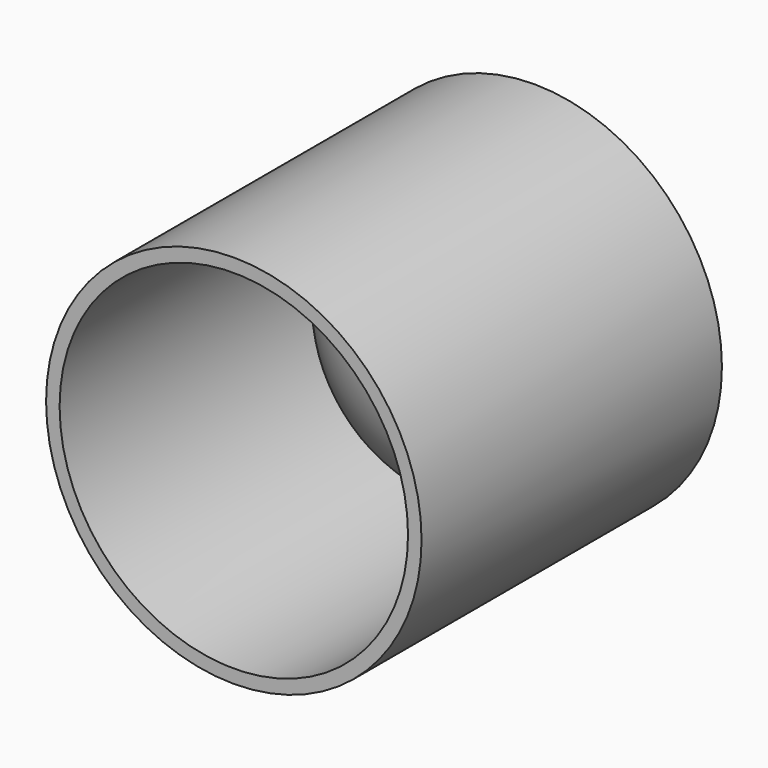
from build123d import *

# Parameters (mm, degrees)
F1_R     = 25
F1_R_2   = 23.2
F2_DEPTH = 50


with BuildPart() as f2:
    # F1 (on Front) → F2 (new body)
    with BuildSketch(Plane.XZ):
        Circle(F1_R)
        Circle(F1_R_2, mode=Mode.SUBTRACT)
    extrude(amount=F2_DEPTH)


with BuildPart() as f4:
    # F3 (on Right) → F4 (revolve)
    with BuildSketch(Plane.YZ):
        with BuildLine():
            Line((0, 0), (0, 23.2))
            ThreePointArc((0, 23.2), (-16.4048773235, 16.4048773235), (-23.2, 0))
            Line((-23.2, 0), (0, 0))
        make_face()
    revolve(axis=Axis((0, -11.6, 0), (0, 1, 0)))


solid = Compound([f2.part, f4.part])
